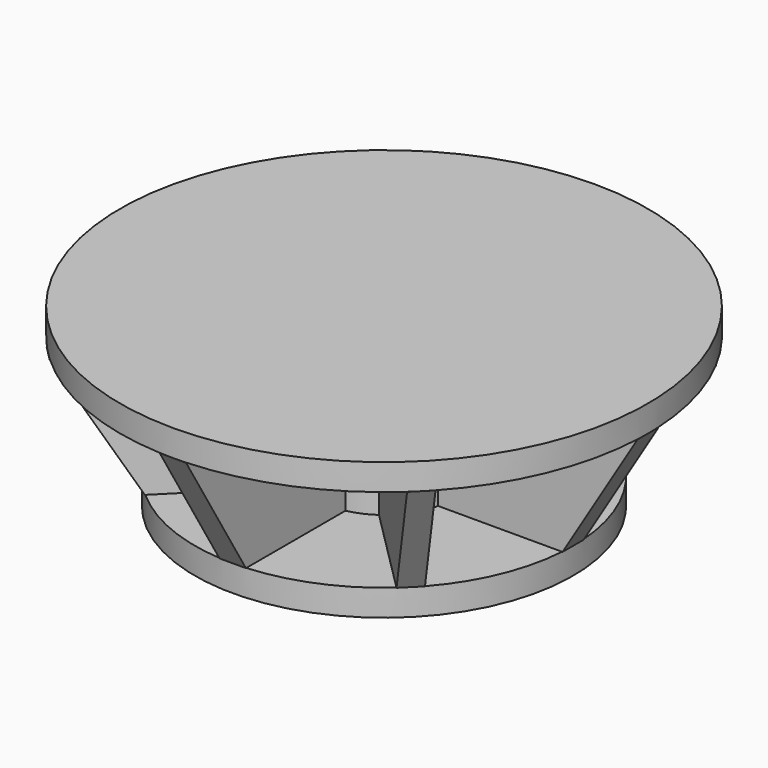
from build123d import *

# Parameters (mm, degrees)
F0_W      = 215
F0_H      = 30
F0_W_2    = 300
F3_DEPTH  = 15
F5_DEPTH  = 15
F8_DEPTH  = 12.7
F11_DEPTH = 12.7
F13_D     = 12.5
F13_DEPTH = 25.4
F13_TIP   = 3.7553788689
F14_R     = 75
F15_DEPTH = 200


with BuildPart() as f1:
    # F0 (on Right) → F1 (revolve)
    with BuildSketch(Plane.YZ):
        with Locations((107.5, 0)):
            Rectangle(F0_W, F0_H)
    revolve(axis=Axis((0, 0, 0), (0, 0, 1)))



with BuildPart() as f2:
    # F0 (on Right) → F2 (revolve)
    with BuildSketch(Plane.YZ):
        with Locations((150, 170)):
            Rectangle(F0_W_2, F0_H)
    revolve(axis=Axis((0, 0, 170), (0, 0, 1)))


with BuildPart() as f1_1:
    add(f1.part)

    add(f2.part)  # F3 merges F2
    # F0 (on Right) → F3 (join, symmetric)
    with BuildSketch(Plane.YZ):
        Polygon((-215, 15), (0, 15), (0, 155), (-300, 155), align=None)
        Polygon((0, 15), (215, 15), (300, 155), (0, 155), align=None)
    extrude(amount=F3_DEPTH, both=True)

    # F4 (on Front) → F5 (join, symmetric)
    with BuildSketch(Plane.XZ):
        Polygon((0, 15), (215, 15), (300, 155), (0, 155), align=None)
        Polygon((-215, 15), (0, 15), (0, 155), (-300, 155), align=None)
    extrude(amount=F5_DEPTH, both=True)

    # F7 (on line) → F8 (join, symmetric)
    with BuildSketch(Plane(origin=(0, 0, 0), x_dir=(-0.7071067812, 0.7071067812, 0), z_dir=(0.7071067812, 0.7071067812, 0))):
        Polygon((-215, 15), (215, 15), (300, 155), (-300, 155), align=None)
    extrude(amount=F8_DEPTH, both=True)

    # F10 (on line) → F11 (join, symmetric)
    with BuildSketch(Plane(origin=(0, 0, 0), x_dir=(0.7071067812, 0.7071067812, 0), z_dir=(0.7071067812, -0.7071067812, 0))):
        Polygon((-215, 15), (215, 15), (300, 155), (-300, 155), align=None)
    extrude(amount=F11_DEPTH, both=True)

    # F13
    with Locations(Plane(origin=(0, 0, -15), x_dir=(1, 0, 0), z_dir=(0, 0, -1))):
        with Locations((-187.7323210063, 77.7612734566), (-77.7612734566, 187.7323210063), (77.7612734566, 187.7323210063), (187.7323210063, 77.7612734566), (187.7323210063, -77.7612734566), (77.7612734566, -187.7323210063), (-77.7612734566, -187.7323210063), (-187.7323210063, -77.7612734566), (-93.8661605031, -38.8806367283), (-38.8806367283, -93.8661605031), (38.8806367283, -93.8661605031), (93.8661605031, -38.8806367283), (93.8661605031, 38.8806367283), (38.8806367283, 93.8661605031), (-38.8806367283, 93.8661605031), (-93.8661605031, 38.8806367283)):
            Hole(F13_D / 2, depth=F13_DEPTH)
            with Locations((0, 0, -(F13_DEPTH + F13_TIP / 2))):  # 118° drill point
                Cone(0, F13_D / 2, F13_TIP, mode=Mode.SUBTRACT)

    # F14 (on face) → F15 (join)
    with BuildSketch(Plane(origin=(0, 0, -15), x_dir=(1, 0, 0), z_dir=(0, 0, -1))):
        Circle(F14_R)
    extrude(amount=-F15_DEPTH)


solid = f1_1.part
